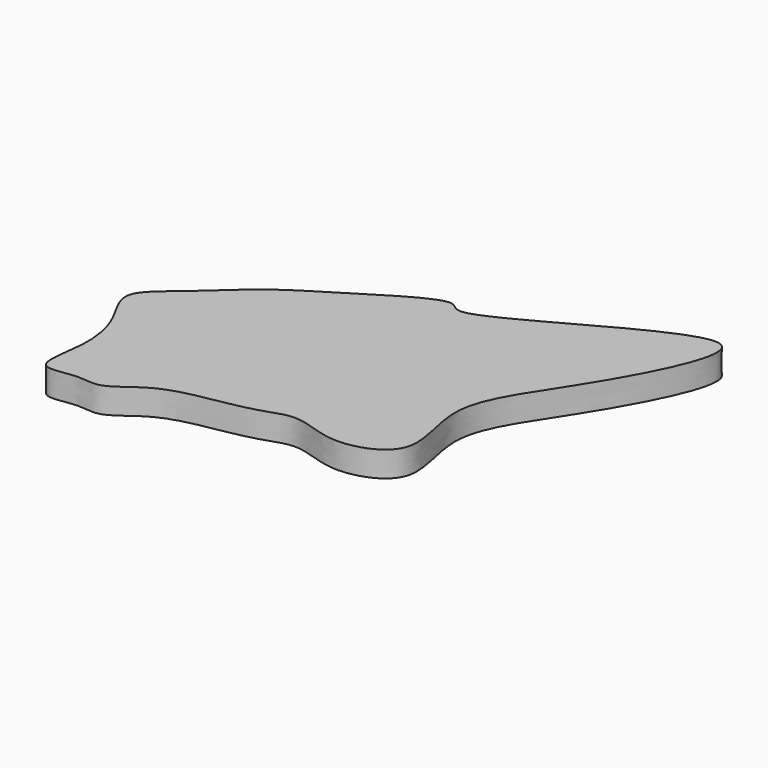
from build123d import *

# Parameters (mm, degrees)
F1_DEPTH = 5


with BuildPart() as f1:
    # F0 (on Top) → F1 (new body)
    with BuildSketch(Plane.XY):
        with BuildLine():
            add(Edge.make_bspline(
                [(-70.9955096245, 18.8275333494), (-72.2534413111, 21.4160967015), (-75.9128100438, 26.2805661387), (-67.6296995081, 32.3102301886), (-58.7697510297, 41.1350556616), (-48.5323901613, 47.0100143856), (-32.7299033741, 57.3005463161), (-31.1582142751, 49.4111671151), (19.8915412741, 85.0771557684), (-0.7162001506, 44.6036109987), (-13.7881274092, 29.1137526357), (-5.0786029507, 11.713505875), (-19.2414780118, 6.5457730833), (-27.7383967183, 11.4793693119), (-34.4978860179, 8.1869510397), (-44.0263240945, 6.8131363889), (-52.2063139591, 4.758014972), (-58.2418859088, -1.0816926518), (-62.8013718099, 0.6797477003), (-71.2388365278, -2.0518978262), (-68.0904072761, 9.4404321827), (-69.5226567995, 15.7967067265), (-70.9955096245, 18.8275333494)],
                knots=[0, 0, 0, 0, 0.0411123547, 0.0842473572, 0.1370767176, 0.1921601891, 0.2515106258, 0.2788554894, 0.3741988524, 0.446526346, 0.5184043253, 0.5746317004, 0.6238953708, 0.6692814475, 0.708376346, 0.7546958349, 0.7987101772, 0.8393458676, 0.871752645, 0.907984515, 0.9518634848, 1, 1, 1, 1], degree=3))
        make_face()
    extrude(amount=F1_DEPTH)


solid = f1.part
